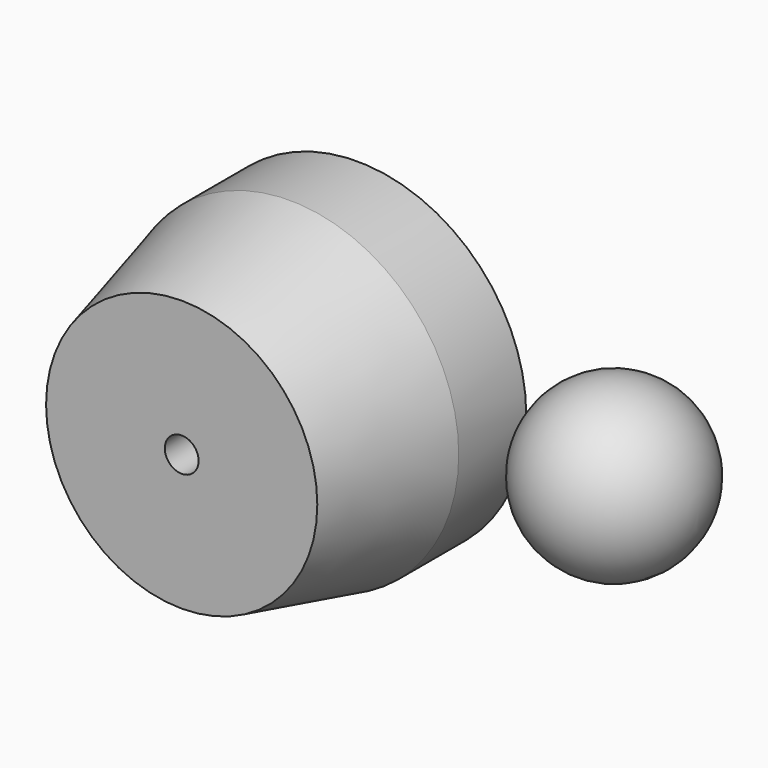
from build123d import *

# Parameters (mm, degrees)
F0_W = 10.16
F0_H = 12.7


with BuildPart() as f1:
    # F0 (on Top) → F1 (revolve)
    with BuildSketch(Plane.XY):
        with Locations((-0.070848, 8.497426)):
            Rectangle(F0_W, F0_H)
        with BuildLine():
            Line((-17.850848, -18.172574), (0, -18.172574))
            Line((0, -18.172574), (5.009152, 2.147426))
            Line((5.009152, 2.147426), (-5.150848, 2.147426))
            ThreePointArc((-5.150848, 2.147426), (-8.870591, -6.832831), (-17.850848, -10.552574))
            Line((-17.850848, -10.552574), (-17.850848, -18.172574))
        make_face()
    revolve(axis=Axis((-20.390848, 3.521754, 0), (0, -1, 0)))


with BuildPart() as f3:
    # F2 (on Front) → F3 (revolve)
    with BuildSketch(Plane.XZ):
        with BuildLine():
            ThreePointArc((17.383355, 6.187402), (30.083355, -6.512598), (42.783355, 6.187402))
            Line((42.783355, 6.187402), (17.383355, 6.187402))
        make_face()
    revolve(axis=Axis((29.916128, 0, 6.187402), (-1, 0, 0)))


solid = Compound([f1.part, f3.part])
